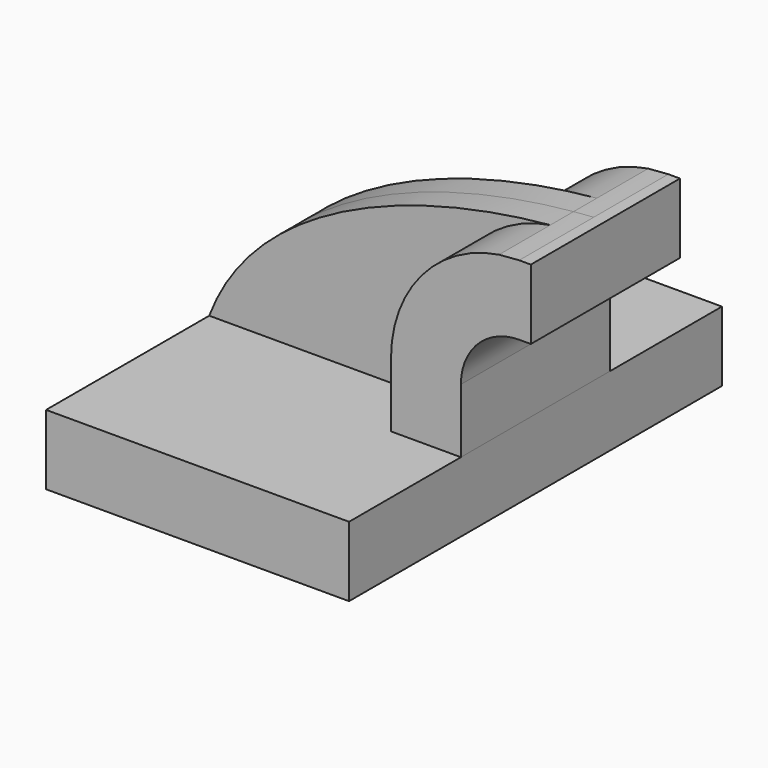
from build123d import *

# Parameters (mm, degrees)
F1_DEPTH = 63.5
F2_DEPTH = 25.4
F3_DEPTH = 7.9375


with BuildPart() as f1:
    # F0 (on Front) → F1 (new body, symmetric)
    with BuildSketch(Plane.XZ):
        Polygon((22.225, 9.525), (-41.275, 9.525), (-41.275, -9.525), (41.275, -9.525), (41.275, 9.525), align=None)
    extrude(amount=F1_DEPTH, both=True)


with BuildPart() as f2:
    # F0 (on Front) → F2 (new body, symmetric)
    with BuildSketch(Plane.XZ):
        with BuildLine():
            Line((22.225, 27.0002), (22.225, 9.525))
            Line((22.225, 9.525), (41.275, 9.525))
            Line((41.275, 9.525), (41.275, 27.0002))
            ThreePointArc((41.275, 27.0002), (45.92468, 38.22552), (57.15, 42.8752))
            Line((57.15, 42.8752), (60.325, 42.8752))
            Line((60.325, 42.8752), (60.325, 61.9252))
            Line((60.325, 61.9252), (57.15, 61.9252))
            add(Edge.make_bspline(
                [(51.660777, 61.491127), (53.493837, 61.662156), (55.324551, 61.806743), (57.15, 61.9252)],
                knots=[106.606317, 106.606317, 106.606317, 106.606317, 111.504536, 111.504536, 111.504536, 111.504536], degree=3))
            ThreePointArc((51.660777, 61.491127), (30.584358, 49.672259), (22.225, 27.0002))
        make_face()
    extrude(amount=F2_DEPTH, both=True)


with BuildPart() as f3:
    # F0 (on Front) → F3 (new body, symmetric)
    with BuildSketch(Plane.XZ):
        with BuildLine():
            add(Edge.make_bspline(
                [(-41.275, 9.525), (-29.241061, 41.521348), (11.765518, 57.768809), (51.660777, 61.491127)],
                knots=[0, 0, 0, 0, 106.606317, 106.606317, 106.606317, 106.606317], degree=3))
            Line((-41.275, 9.525), (22.225, 9.525))
            Line((22.225, 9.525), (22.225, 27.0002))
            ThreePointArc((22.225, 27.0002), (30.584358, 49.672259), (51.660777, 61.491127))
        make_face()
    extrude(amount=F3_DEPTH, both=True)


solid = Compound([f1.part, f2.part, f3.part])
